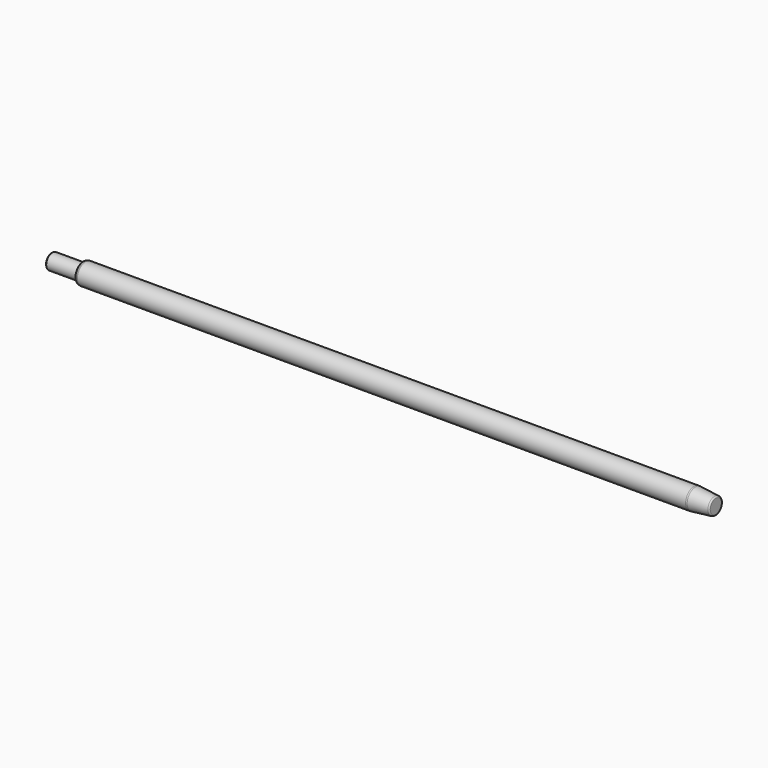
from build123d import *

# Parameters (mm, degrees)
F0_R     = 11
F1_DEPTH = 45
F2_R     = 15
F2_R_2   = 11
F3_DEPTH = 900
F4_SIZE2 = 3.153127058
F4_SIZE  = 30
F5_SIZE  = 1
F6_SIZE2 = 0.8038475773
F6_SIZE  = 3
F7_R     = 0.5
F8_R     = 5
F9_R     = 20
F10_R    = 2


with BuildPart() as f1:
    # F0 (on Right) → F1 (new body)
    with BuildSketch(Plane.YZ):
        Circle(F0_R)
    extrude(amount=F1_DEPTH)

    # F2 (on face) → F3 (join)
    with BuildSketch(Plane.YZ.offset(45)):
        Circle(F2_R)
        Circle(F2_R_2, mode=Mode.SUBTRACT)
        Circle(F2_R_2)
    extrude(amount=F3_DEPTH)

    # F4
    f4_edges = [f1.edges().sort_by_distance(p)[0] for p in [
        (945, -15, 0),
    ]]
    f4_side = f1.faces().sort_by_distance((495, -15, 0))[0]
    chamfer(f4_edges, length=F4_SIZE, length2=F4_SIZE2, reference=f4_side)

    # F5
    f5_edges = [f1.edges().sort_by_distance(p)[0] for p in [
        (0, -11, 0),
    ]]
    chamfer(f5_edges, length=F5_SIZE)

    # F6
    f6_edges = [f1.edges().sort_by_distance(p)[0] for p in [
        (45, -15, 0),
    ]]
    f6_side = f1.faces().sort_by_distance((480, -15, 0))[0]
    chamfer(f6_edges, length=F6_SIZE, length2=F6_SIZE2, reference=f6_side)

    # F7
    f7_edges = [f1.edges().sort_by_distance(p)[0] for p in [
        (45, -11, 0),
        (45, -14.196152, 0),
    ]]
    fillet(f7_edges, radius=F7_R)

    # F8
    f8_edges = [f1.edges().sort_by_distance(p)[0] for p in [
        (48, -15, 0),
    ]]
    fillet(f8_edges, radius=F8_R)

    # F9
    f9_edges = [f1.edges().sort_by_distance(p)[0] for p in [
        (915, -15, 0),
    ]]
    fillet(f9_edges, radius=F9_R)

    # F10
    f10_edges = [f1.edges().sort_by_distance(p)[0] for p in [
        (945, -11.846873, 0),
    ]]
    fillet(f10_edges, radius=F10_R)


solid = f1.part
